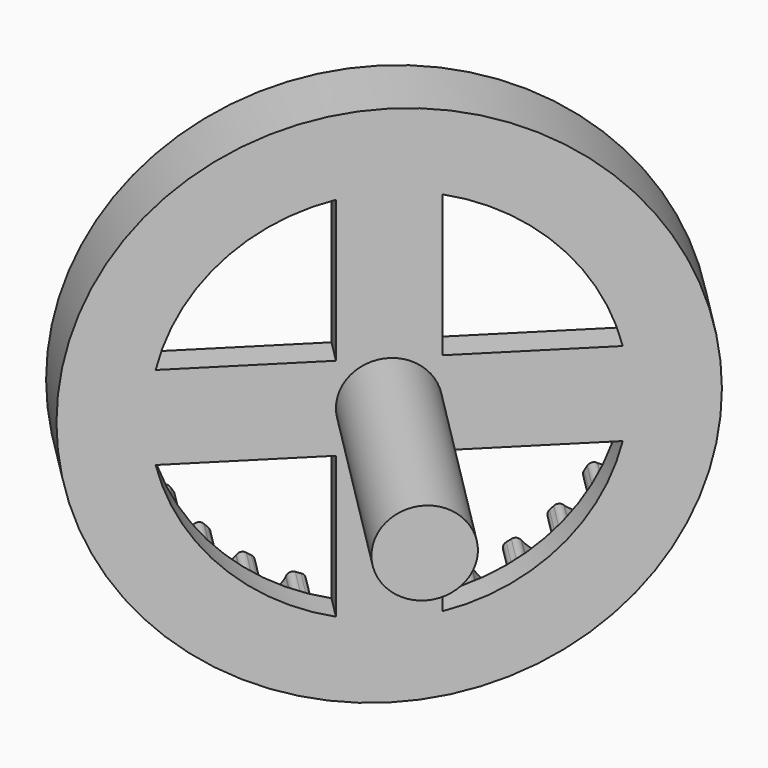
from build123d import *

# Parameters (mm, degrees)
SKETCH044_R             = 12.5
PAD026_DEPTH            = 2
POCKET014_DEPTH         = 2.001
SKETCH045_R             = 12.5
PAD027_DEPTH            = 1.5
POCKET015_DEPTH         = 3.501
SKETCH047_R             = 2
PAD028_DEPTH            = 12
BODY018_ROLL_ANGLE      = -90
BODY018_PLACEMENT_ANGLE = -135


with BuildPart() as part:
    # Sketch044 → Pad026 (new body)
    with BuildSketch(Plane.XY):
        Circle(SKETCH044_R)
    extrude(amount=PAD026_DEPTH)

    # InvoluteGear003 → Pocket014 (cut, through all)
    with BuildSketch(Plane.XY):
        with BuildLine():
            Line((9.429779, -0.670682), (9.462464, -0.672485))
            add(Edge.make_bspline(
                [(9.462464, -0.672485), (9.526401, -0.672813), (9.782228, -0.665747), (10.228882, -0.559536), (10.796766, -0.262578)],
                knots=[0, 0, 0, 0, 0, 1, 1, 1, 1, 1], degree=4))
            ThreePointArc((10.796766, -0.262578), (10.799979, 0.000282), (10.796794, 0.263143))
            add(Edge.make_bspline(
                [(10.796794, 0.263143), (10.228882, 0.559536), (9.782228, 0.665747), (9.526401, 0.672813), (9.462464, 0.672485)],
                knots=[0, 0, 0, 0, 0, 1, 1, 1, 1, 1], degree=4))
            Line((9.462464, 0.672485), (9.429779, 0.670682))
            ThreePointArc((9.429779, 0.670682), (9.231731, 0.732712), (9.134195, 0.9159))
            ThreePointArc((9.134195, 0.9159), (9.122278, 1.027834), (9.108989, 1.139613))
            ThreePointArc((9.108989, 1.139613), (9.163316, 1.339912), (9.342596, 1.444457))
            Line((9.342596, 1.444457), (9.374862, 1.449972))
            add(Edge.make_bspline(
                [(9.374862, 1.449972), (9.437269, 1.46388), (9.68511, 1.527695), (10.096931, 1.730633), (10.584498, 2.146512)],
                knots=[0, 0, 0, 0, 0, 1, 1, 1, 1, 1], degree=4))
            ThreePointArc((10.584498, 2.146512), (10.529138, 2.403497), (10.467541, 2.659058))
            add(Edge.make_bspline(
                [(10.467541, 2.659058), (9.847914, 2.821648), (9.388824, 2.825806), (9.137839, 2.775768), (9.075578, 2.76122)],
                knots=[0, 0, 0, 0, 0, 1, 1, 1, 1, 1], degree=4))
            Line((9.075578, 2.76122), (9.044114, 2.75219))
            ThreePointArc((9.044114, 2.75219), (8.837228, 2.768595), (8.701375, 2.925486))
            ThreePointArc((8.701375, 2.925486), (8.664849, 3.031962), (8.62702, 3.137981))
            ThreePointArc((8.62702, 3.137981), (8.635414, 3.345347), (8.786936, 3.487164))
            Line((8.786936, 3.487164), (8.817165, 3.499721))
            add(Edge.make_bspline(
                [(8.817165, 3.499721), (8.874913, 3.527167), (9.10234, 3.644532), (9.458678, 3.934021), (9.841478, 4.447967)],
                knots=[0, 0, 0, 0, 0, 1, 1, 1, 1, 1], degree=4))
            ThreePointArc((9.841478, 4.447967), (9.730323, 4.68619), (9.613402, 4.921637))
            add(Edge.make_bspline(
                [(9.613402, 4.921637), (8.973131, 4.94227), (8.524626, 4.844167), (8.291068, 4.739534), (8.233605, 4.711497)],
                knots=[0, 0, 0, 0, 0, 1, 1, 1, 1, 1], degree=4))
            Line((8.233605, 4.711497), (8.20494, 4.695691))
            ThreePointArc((8.20494, 4.695691), (7.99959, 4.665649), (7.832232, 4.788376))
            ThreePointArc((7.832232, 4.788376), (7.772928, 4.884054), (7.712456, 4.978998))
            ThreePointArc((7.712456, 4.978998), (7.674496, 5.183033), (7.790662, 5.355011))
            Line((7.790662, 5.355011), (7.817339, 5.37398))
            add(Edge.make_bspline(
                [(7.817339, 5.37398), (7.867532, 5.413588), (8.06314, 5.578617), (8.346127, 5.940141), (8.604966, 6.526382)],
                knots=[0, 0, 0, 0, 0, 1, 1, 1, 1, 1], degree=4))
            ThreePointArc((8.604966, 6.526382), (8.443588, 6.733898), (8.277206, 6.937424))
            add(Edge.make_bspline(
                [(8.277206, 6.937424), (7.648397, 6.815067), (7.232967, 6.619621), (7.028548, 6.46564), (6.978765, 6.425519)],
                knots=[0, 0, 0, 0, 0, 1, 1, 1, 1, 1], degree=4))
            Line((6.978765, 6.425519), (6.954335, 6.403732))
            ThreePointArc((6.954335, 6.403732), (6.760819, 6.328748), (6.570347, 6.411157))
            ThreePointArc((6.570347, 6.411157), (6.49124, 6.49124), (6.411157, 6.570347))
            ThreePointArc((6.411157, 6.570347), (6.328748, 6.760819), (6.403732, 6.954335))
            Line((6.403732, 6.954335), (6.425519, 6.978765))
            add(Edge.make_bspline(
                [(6.425519, 6.978765), (6.46564, 7.028548), (6.619621, 7.232967), (6.815067, 7.648397), (6.936965, 8.277537)],
                knots=[0, 0, 0, 0, 0, 1, 1, 1, 1, 1], degree=4))
            ThreePointArc((6.936965, 8.277537), (6.733456, 8.44394), (6.525958, 8.60534))
            add(Edge.make_bspline(
                [(6.525958, 8.60534), (5.940141, 8.346127), (5.578617, 8.06314), (5.413588, 7.867532), (5.37398, 7.817339)],
                knots=[0, 0, 0, 0, 0, 1, 1, 1, 1, 1], degree=4))
            Line((5.37398, 7.817339), (5.355011, 7.790662))
            ThreePointArc((5.355011, 7.790662), (5.183033, 7.674496), (4.978998, 7.712456))
            ThreePointArc((4.978998, 7.712456), (4.884054, 7.772928), (4.788376, 7.832232))
            ThreePointArc((4.788376, 7.832232), (4.665649, 7.99959), (4.695691, 8.20494))
            Line((4.695691, 8.20494), (4.711497, 8.233605))
            add(Edge.make_bspline(
                [(4.711497, 8.233605), (4.739534, 8.291068), (4.844167, 8.524626), (4.94227, 8.973131), (4.921116, 9.613622)],
                knots=[0, 0, 0, 0, 0, 1, 1, 1, 1, 1], degree=4))
            ThreePointArc((4.921116, 9.613622), (4.685681, 9.730568), (4.44747, 9.841748))
            add(Edge.make_bspline(
                [(4.44747, 9.841748), (3.934021, 9.458678), (3.644532, 9.10234), (3.527167, 8.874913), (3.499721, 8.817165)],
                knots=[0, 0, 0, 0, 0, 1, 1, 1, 1, 1], degree=4))
            Line((3.499721, 8.817165), (3.487164, 8.786936))
            ThreePointArc((3.487164, 8.786936), (3.345347, 8.635414), (3.137981, 8.62702))
            ThreePointArc((3.137981, 8.62702), (3.031962, 8.664849), (2.925486, 8.701375))
            ThreePointArc((2.925486, 8.701375), (2.768595, 8.837228), (2.75219, 9.044114))
            Line((2.75219, 9.044114), (2.76122, 9.075578))
            add(Edge.make_bspline(
                [(2.76122, 9.075578), (2.775768, 9.137839), (2.825806, 9.388824), (2.821648, 9.847914), (2.658501, 10.46764)],
                knots=[0, 0, 0, 0, 0, 1, 1, 1, 1, 1], degree=4))
            ThreePointArc((2.658501, 10.46764), (2.402946, 10.529264), (2.145967, 10.58465))
            add(Edge.make_bspline(
                [(2.145967, 10.58465), (1.730633, 10.096931), (1.527695, 9.68511), (1.46388, 9.437269), (1.449972, 9.374862)],
                knots=[0, 0, 0, 0, 0, 1, 1, 1, 1, 1], degree=4))
            Line((1.449972, 9.374862), (1.444457, 9.342596))
            ThreePointArc((1.444457, 9.342596), (1.339912, 9.163316), (1.139613, 9.108989))
            ThreePointArc((1.139613, 9.108989), (1.027834, 9.122278), (0.9159, 9.134195))
            ThreePointArc((0.9159, 9.134195), (0.732712, 9.231731), (0.670682, 9.429779))
            Line((0.670682, 9.429779), (0.672485, 9.462464))
            add(Edge.make_bspline(
                [(0.672485, 9.462464), (0.672813, 9.526401), (0.665747, 9.782228), (0.559536, 10.228882), (0.262578, 10.796766)],
                knots=[0, 0, 0, 0, 0, 1, 1, 1, 1, 1], degree=4))
            ThreePointArc((0.262578, 10.796766), (-0.000282, 10.799979), (-0.263143, 10.796794))
            add(Edge.make_bspline(
                [(-0.263143, 10.796794), (-0.559536, 10.228882), (-0.665747, 9.782228), (-0.672813, 9.526401), (-0.672485, 9.462464)],
                knots=[0, 0, 0, 0, 0, 1, 1, 1, 1, 1], degree=4))
            Line((-0.672485, 9.462464), (-0.670682, 9.429779))
            ThreePointArc((-0.670682, 9.429779), (-0.732712, 9.231731), (-0.9159, 9.134195))
            ThreePointArc((-0.9159, 9.134195), (-1.027834, 9.122278), (-1.139613, 9.108989))
            ThreePointArc((-1.139613, 9.108989), (-1.339912, 9.163316), (-1.444457, 9.342596))
            Line((-1.444457, 9.342596), (-1.449972, 9.374862))
            add(Edge.make_bspline(
                [(-1.449972, 9.374862), (-1.46388, 9.437269), (-1.527695, 9.68511), (-1.730633, 10.096931), (-2.146512, 10.584498)],
                knots=[0, 0, 0, 0, 0, 1, 1, 1, 1, 1], degree=4))
            ThreePointArc((-2.146512, 10.584498), (-2.403497, 10.529138), (-2.659058, 10.467541))
            add(Edge.make_bspline(
                [(-2.659058, 10.467541), (-2.821648, 9.847914), (-2.825806, 9.388824), (-2.775768, 9.137839), (-2.76122, 9.075578)],
                knots=[0, 0, 0, 0, 0, 1, 1, 1, 1, 1], degree=4))
            Line((-2.76122, 9.075578), (-2.75219, 9.044114))
            ThreePointArc((-2.75219, 9.044114), (-2.768595, 8.837228), (-2.925486, 8.701375))
            ThreePointArc((-2.925486, 8.701375), (-3.031962, 8.664849), (-3.137981, 8.62702))
            ThreePointArc((-3.137981, 8.62702), (-3.345347, 8.635414), (-3.487164, 8.786936))
            Line((-3.487164, 8.786936), (-3.499721, 8.817165))
            add(Edge.make_bspline(
                [(-3.499721, 8.817165), (-3.527167, 8.874913), (-3.644532, 9.10234), (-3.934021, 9.458678), (-4.447967, 9.841478)],
                knots=[0, 0, 0, 0, 0, 1, 1, 1, 1, 1], degree=4))
            ThreePointArc((-4.447967, 9.841478), (-4.68619, 9.730323), (-4.921637, 9.613402))
            add(Edge.make_bspline(
                [(-4.921637, 9.613402), (-4.94227, 8.973131), (-4.844167, 8.524626), (-4.739534, 8.291068), (-4.711497, 8.233605)],
                knots=[0, 0, 0, 0, 0, 1, 1, 1, 1, 1], degree=4))
            Line((-4.711497, 8.233605), (-4.695691, 8.20494))
            ThreePointArc((-4.695691, 8.20494), (-4.665649, 7.99959), (-4.788376, 7.832232))
            ThreePointArc((-4.788376, 7.832232), (-4.884054, 7.772928), (-4.978998, 7.712456))
            ThreePointArc((-4.978998, 7.712456), (-5.183033, 7.674496), (-5.355011, 7.790662))
            Line((-5.355011, 7.790662), (-5.37398, 7.817339))
            add(Edge.make_bspline(
                [(-5.37398, 7.817339), (-5.413588, 7.867532), (-5.578617, 8.06314), (-5.940141, 8.346127), (-6.526382, 8.604966)],
                knots=[0, 0, 0, 0, 0, 1, 1, 1, 1, 1], degree=4))
            ThreePointArc((-6.526382, 8.604966), (-6.733898, 8.443588), (-6.937424, 8.277206))
            add(Edge.make_bspline(
                [(-6.937424, 8.277206), (-6.815067, 7.648397), (-6.619621, 7.232967), (-6.46564, 7.028548), (-6.425519, 6.978765)],
                knots=[0, 0, 0, 0, 0, 1, 1, 1, 1, 1], degree=4))
            Line((-6.425519, 6.978765), (-6.403732, 6.954335))
            ThreePointArc((-6.403732, 6.954335), (-6.328748, 6.760819), (-6.411157, 6.570347))
            ThreePointArc((-6.411157, 6.570347), (-6.49124, 6.49124), (-6.570347, 6.411157))
            ThreePointArc((-6.570347, 6.411157), (-6.760819, 6.328748), (-6.954335, 6.403732))
            Line((-6.954335, 6.403732), (-6.978765, 6.425519))
            add(Edge.make_bspline(
                [(-6.978765, 6.425519), (-7.028548, 6.46564), (-7.232967, 6.619621), (-7.648397, 6.815067), (-8.277537, 6.936965)],
                knots=[0, 0, 0, 0, 0, 1, 1, 1, 1, 1], degree=4))
            ThreePointArc((-8.277537, 6.936965), (-8.44394, 6.733456), (-8.60534, 6.525958))
            add(Edge.make_bspline(
                [(-8.60534, 6.525958), (-8.346127, 5.940141), (-8.06314, 5.578617), (-7.867532, 5.413588), (-7.817339, 5.37398)],
                knots=[0, 0, 0, 0, 0, 1, 1, 1, 1, 1], degree=4))
            Line((-7.817339, 5.37398), (-7.790662, 5.355011))
            ThreePointArc((-7.790662, 5.355011), (-7.674496, 5.183033), (-7.712456, 4.978998))
            ThreePointArc((-7.712456, 4.978998), (-7.772928, 4.884054), (-7.832232, 4.788376))
            ThreePointArc((-7.832232, 4.788376), (-7.99959, 4.665649), (-8.20494, 4.695691))
            Line((-8.20494, 4.695691), (-8.233605, 4.711497))
            add(Edge.make_bspline(
                [(-8.233605, 4.711497), (-8.291068, 4.739534), (-8.524626, 4.844167), (-8.973131, 4.94227), (-9.613622, 4.921116)],
                knots=[0, 0, 0, 0, 0, 1, 1, 1, 1, 1], degree=4))
            ThreePointArc((-9.613622, 4.921116), (-9.730568, 4.685681), (-9.841748, 4.44747))
            add(Edge.make_bspline(
                [(-9.841748, 4.44747), (-9.458678, 3.934021), (-9.10234, 3.644532), (-8.874913, 3.527167), (-8.817165, 3.499721)],
                knots=[0, 0, 0, 0, 0, 1, 1, 1, 1, 1], degree=4))
            Line((-8.817165, 3.499721), (-8.786936, 3.487164))
            ThreePointArc((-8.786936, 3.487164), (-8.635414, 3.345347), (-8.62702, 3.137981))
            ThreePointArc((-8.62702, 3.137981), (-8.664849, 3.031962), (-8.701375, 2.925486))
            ThreePointArc((-8.701375, 2.925486), (-8.837228, 2.768595), (-9.044114, 2.75219))
            Line((-9.044114, 2.75219), (-9.075578, 2.76122))
            add(Edge.make_bspline(
                [(-9.075578, 2.76122), (-9.137839, 2.775768), (-9.388824, 2.825806), (-9.847914, 2.821648), (-10.46764, 2.658501)],
                knots=[0, 0, 0, 0, 0, 1, 1, 1, 1, 1], degree=4))
            ThreePointArc((-10.46764, 2.658501), (-10.529264, 2.402946), (-10.58465, 2.145967))
            add(Edge.make_bspline(
                [(-10.58465, 2.145967), (-10.096931, 1.730633), (-9.68511, 1.527695), (-9.437269, 1.46388), (-9.374862, 1.449972)],
                knots=[0, 0, 0, 0, 0, 1, 1, 1, 1, 1], degree=4))
            Line((-9.374862, 1.449972), (-9.342596, 1.444457))
            ThreePointArc((-9.342596, 1.444457), (-9.163316, 1.339912), (-9.108989, 1.139613))
            ThreePointArc((-9.108989, 1.139613), (-9.122278, 1.027834), (-9.134195, 0.9159))
            ThreePointArc((-9.134195, 0.9159), (-9.231731, 0.732712), (-9.429779, 0.670682))
            Line((-9.429779, 0.670682), (-9.462464, 0.672485))
            add(Edge.make_bspline(
                [(-9.462464, 0.672485), (-9.526401, 0.672813), (-9.782228, 0.665747), (-10.228882, 0.559536), (-10.796766, 0.262578)],
                knots=[0, 0, 0, 0, 0, 1, 1, 1, 1, 1], degree=4))
            ThreePointArc((-10.796766, 0.262578), (-10.799979, -0.000282), (-10.796794, -0.263143))
            add(Edge.make_bspline(
                [(-10.796794, -0.263143), (-10.228882, -0.559536), (-9.782228, -0.665747), (-9.526401, -0.672813), (-9.462464, -0.672485)],
                knots=[0, 0, 0, 0, 0, 1, 1, 1, 1, 1], degree=4))
            Line((-9.462464, -0.672485), (-9.429779, -0.670682))
            ThreePointArc((-9.429779, -0.670682), (-9.231731, -0.732712), (-9.134195, -0.9159))
            ThreePointArc((-9.134195, -0.9159), (-9.122278, -1.027834), (-9.108989, -1.139613))
            ThreePointArc((-9.108989, -1.139613), (-9.163316, -1.339912), (-9.342596, -1.444457))
            Line((-9.342596, -1.444457), (-9.374862, -1.449972))
            add(Edge.make_bspline(
                [(-9.374862, -1.449972), (-9.437269, -1.46388), (-9.68511, -1.527695), (-10.096931, -1.730633), (-10.584498, -2.146512)],
                knots=[0, 0, 0, 0, 0, 1, 1, 1, 1, 1], degree=4))
            ThreePointArc((-10.584498, -2.146512), (-10.529138, -2.403497), (-10.467541, -2.659058))
            add(Edge.make_bspline(
                [(-10.467541, -2.659058), (-9.847914, -2.821648), (-9.388824, -2.825806), (-9.137839, -2.775768), (-9.075578, -2.76122)],
                knots=[0, 0, 0, 0, 0, 1, 1, 1, 1, 1], degree=4))
            Line((-9.075578, -2.76122), (-9.044114, -2.75219))
            ThreePointArc((-9.044114, -2.75219), (-8.837228, -2.768595), (-8.701375, -2.925486))
            ThreePointArc((-8.701375, -2.925486), (-8.664849, -3.031962), (-8.62702, -3.137981))
            ThreePointArc((-8.62702, -3.137981), (-8.635414, -3.345347), (-8.786936, -3.487164))
            Line((-8.786936, -3.487164), (-8.817165, -3.499721))
            add(Edge.make_bspline(
                [(-8.817165, -3.499721), (-8.874913, -3.527167), (-9.10234, -3.644532), (-9.458678, -3.934021), (-9.841478, -4.447967)],
                knots=[0, 0, 0, 0, 0, 1, 1, 1, 1, 1], degree=4))
            ThreePointArc((-9.841478, -4.447967), (-9.730323, -4.68619), (-9.613402, -4.921637))
            add(Edge.make_bspline(
                [(-9.613402, -4.921637), (-8.973131, -4.94227), (-8.524626, -4.844167), (-8.291068, -4.739534), (-8.233605, -4.711497)],
                knots=[0, 0, 0, 0, 0, 1, 1, 1, 1, 1], degree=4))
            Line((-8.233605, -4.711497), (-8.20494, -4.695691))
            ThreePointArc((-8.20494, -4.695691), (-7.99959, -4.665649), (-7.832232, -4.788376))
            ThreePointArc((-7.832232, -4.788376), (-7.772928, -4.884054), (-7.712456, -4.978998))
            ThreePointArc((-7.712456, -4.978998), (-7.674496, -5.183033), (-7.790662, -5.355011))
            Line((-7.790662, -5.355011), (-7.817339, -5.37398))
            add(Edge.make_bspline(
                [(-7.817339, -5.37398), (-7.867532, -5.413588), (-8.06314, -5.578617), (-8.346127, -5.940141), (-8.604966, -6.526382)],
                knots=[0, 0, 0, 0, 0, 1, 1, 1, 1, 1], degree=4))
            ThreePointArc((-8.604966, -6.526382), (-8.443588, -6.733898), (-8.277206, -6.937424))
            add(Edge.make_bspline(
                [(-8.277206, -6.937424), (-7.648397, -6.815067), (-7.232967, -6.619621), (-7.028548, -6.46564), (-6.978765, -6.425519)],
                knots=[0, 0, 0, 0, 0, 1, 1, 1, 1, 1], degree=4))
            Line((-6.978765, -6.425519), (-6.954335, -6.403732))
            ThreePointArc((-6.954335, -6.403732), (-6.760819, -6.328748), (-6.570347, -6.411157))
            ThreePointArc((-6.570347, -6.411157), (-6.49124, -6.49124), (-6.411157, -6.570347))
            ThreePointArc((-6.411157, -6.570347), (-6.328748, -6.760819), (-6.403732, -6.954335))
            Line((-6.403732, -6.954335), (-6.425519, -6.978765))
            add(Edge.make_bspline(
                [(-6.425519, -6.978765), (-6.46564, -7.028548), (-6.619621, -7.232967), (-6.815067, -7.648397), (-6.936965, -8.277537)],
                knots=[0, 0, 0, 0, 0, 1, 1, 1, 1, 1], degree=4))
            ThreePointArc((-6.936965, -8.277537), (-6.733456, -8.44394), (-6.525958, -8.60534))
            add(Edge.make_bspline(
                [(-6.525958, -8.60534), (-5.940141, -8.346127), (-5.578617, -8.06314), (-5.413588, -7.867532), (-5.37398, -7.817339)],
                knots=[0, 0, 0, 0, 0, 1, 1, 1, 1, 1], degree=4))
            Line((-5.37398, -7.817339), (-5.355011, -7.790662))
            ThreePointArc((-5.355011, -7.790662), (-5.183033, -7.674496), (-4.978998, -7.712456))
            ThreePointArc((-4.978998, -7.712456), (-4.884054, -7.772928), (-4.788376, -7.832232))
            ThreePointArc((-4.788376, -7.832232), (-4.665649, -7.99959), (-4.695691, -8.20494))
            Line((-4.695691, -8.20494), (-4.711497, -8.233605))
            add(Edge.make_bspline(
                [(-4.711497, -8.233605), (-4.739534, -8.291068), (-4.844167, -8.524626), (-4.94227, -8.973131), (-4.921116, -9.613622)],
                knots=[0, 0, 0, 0, 0, 1, 1, 1, 1, 1], degree=4))
            ThreePointArc((-4.921116, -9.613622), (-4.685681, -9.730568), (-4.44747, -9.841748))
            add(Edge.make_bspline(
                [(-4.44747, -9.841748), (-3.934021, -9.458678), (-3.644532, -9.10234), (-3.527167, -8.874913), (-3.499721, -8.817165)],
                knots=[0, 0, 0, 0, 0, 1, 1, 1, 1, 1], degree=4))
            Line((-3.499721, -8.817165), (-3.487164, -8.786936))
            ThreePointArc((-3.487164, -8.786936), (-3.345347, -8.635414), (-3.137981, -8.62702))
            ThreePointArc((-3.137981, -8.62702), (-3.031962, -8.664849), (-2.925486, -8.701375))
            ThreePointArc((-2.925486, -8.701375), (-2.768595, -8.837228), (-2.75219, -9.044114))
            Line((-2.75219, -9.044114), (-2.76122, -9.075578))
            add(Edge.make_bspline(
                [(-2.76122, -9.075578), (-2.775768, -9.137839), (-2.825806, -9.388824), (-2.821648, -9.847914), (-2.658501, -10.46764)],
                knots=[0, 0, 0, 0, 0, 1, 1, 1, 1, 1], degree=4))
            ThreePointArc((-2.658501, -10.46764), (-2.402946, -10.529264), (-2.145967, -10.58465))
            add(Edge.make_bspline(
                [(-2.145967, -10.58465), (-1.730633, -10.096931), (-1.527695, -9.68511), (-1.46388, -9.437269), (-1.449972, -9.374862)],
                knots=[0, 0, 0, 0, 0, 1, 1, 1, 1, 1], degree=4))
            Line((-1.449972, -9.374862), (-1.444457, -9.342596))
            ThreePointArc((-1.444457, -9.342596), (-1.339912, -9.163316), (-1.139613, -9.108989))
            ThreePointArc((-1.139613, -9.108989), (-1.027834, -9.122278), (-0.9159, -9.134195))
            ThreePointArc((-0.9159, -9.134195), (-0.732712, -9.231731), (-0.670682, -9.429779))
            Line((-0.670682, -9.429779), (-0.672485, -9.462464))
            add(Edge.make_bspline(
                [(-0.672485, -9.462464), (-0.672813, -9.526401), (-0.665747, -9.782228), (-0.559536, -10.228882), (-0.262578, -10.796766)],
                knots=[0, 0, 0, 0, 0, 1, 1, 1, 1, 1], degree=4))
            ThreePointArc((-0.262578, -10.796766), (0.000282, -10.799979), (0.263143, -10.796794))
            add(Edge.make_bspline(
                [(0.263143, -10.796794), (0.559536, -10.228882), (0.665747, -9.782228), (0.672813, -9.526401), (0.672485, -9.462464)],
                knots=[0, 0, 0, 0, 0, 1, 1, 1, 1, 1], degree=4))
            Line((0.672485, -9.462464), (0.670682, -9.429779))
            ThreePointArc((0.670682, -9.429779), (0.732712, -9.231731), (0.9159, -9.134195))
            ThreePointArc((0.9159, -9.134195), (1.027834, -9.122278), (1.139613, -9.108989))
            ThreePointArc((1.139613, -9.108989), (1.339912, -9.163316), (1.444457, -9.342596))
            Line((1.444457, -9.342596), (1.449972, -9.374862))
            add(Edge.make_bspline(
                [(1.449972, -9.374862), (1.46388, -9.437269), (1.527695, -9.68511), (1.730633, -10.096931), (2.146512, -10.584498)],
                knots=[0, 0, 0, 0, 0, 1, 1, 1, 1, 1], degree=4))
            ThreePointArc((2.146512, -10.584498), (2.403497, -10.529138), (2.659058, -10.467541))
            add(Edge.make_bspline(
                [(2.659058, -10.467541), (2.821648, -9.847914), (2.825806, -9.388824), (2.775768, -9.137839), (2.76122, -9.075578)],
                knots=[0, 0, 0, 0, 0, 1, 1, 1, 1, 1], degree=4))
            Line((2.76122, -9.075578), (2.75219, -9.044114))
            ThreePointArc((2.75219, -9.044114), (2.768595, -8.837228), (2.925486, -8.701375))
            ThreePointArc((2.925486, -8.701375), (3.031962, -8.664849), (3.137981, -8.62702))
            ThreePointArc((3.137981, -8.62702), (3.345347, -8.635414), (3.487164, -8.786936))
            Line((3.487164, -8.786936), (3.499721, -8.817165))
            add(Edge.make_bspline(
                [(3.499721, -8.817165), (3.527167, -8.874913), (3.644532, -9.10234), (3.934021, -9.458678), (4.447967, -9.841478)],
                knots=[0, 0, 0, 0, 0, 1, 1, 1, 1, 1], degree=4))
            ThreePointArc((4.447967, -9.841478), (4.68619, -9.730323), (4.921637, -9.613402))
            add(Edge.make_bspline(
                [(4.921637, -9.613402), (4.94227, -8.973131), (4.844167, -8.524626), (4.739534, -8.291068), (4.711497, -8.233605)],
                knots=[0, 0, 0, 0, 0, 1, 1, 1, 1, 1], degree=4))
            Line((4.711497, -8.233605), (4.695691, -8.20494))
            ThreePointArc((4.695691, -8.20494), (4.665649, -7.99959), (4.788376, -7.832232))
            ThreePointArc((4.788376, -7.832232), (4.884054, -7.772928), (4.978998, -7.712456))
            ThreePointArc((4.978998, -7.712456), (5.183033, -7.674496), (5.355011, -7.790662))
            Line((5.355011, -7.790662), (5.37398, -7.817339))
            add(Edge.make_bspline(
                [(5.37398, -7.817339), (5.413588, -7.867532), (5.578617, -8.06314), (5.940141, -8.346127), (6.526382, -8.604966)],
                knots=[0, 0, 0, 0, 0, 1, 1, 1, 1, 1], degree=4))
            ThreePointArc((6.526382, -8.604966), (6.733898, -8.443588), (6.937424, -8.277206))
            add(Edge.make_bspline(
                [(6.937424, -8.277206), (6.815067, -7.648397), (6.619621, -7.232967), (6.46564, -7.028548), (6.425519, -6.978765)],
                knots=[0, 0, 0, 0, 0, 1, 1, 1, 1, 1], degree=4))
            Line((6.425519, -6.978765), (6.403732, -6.954335))
            ThreePointArc((6.403732, -6.954335), (6.328748, -6.760819), (6.411157, -6.570347))
            ThreePointArc((6.411157, -6.570347), (6.49124, -6.49124), (6.570347, -6.411157))
            ThreePointArc((6.570347, -6.411157), (6.760819, -6.328748), (6.954335, -6.403732))
            Line((6.954335, -6.403732), (6.978765, -6.425519))
            add(Edge.make_bspline(
                [(6.978765, -6.425519), (7.028548, -6.46564), (7.232967, -6.619621), (7.648397, -6.815067), (8.277537, -6.936965)],
                knots=[0, 0, 0, 0, 0, 1, 1, 1, 1, 1], degree=4))
            ThreePointArc((8.277537, -6.936965), (8.44394, -6.733456), (8.60534, -6.525958))
            add(Edge.make_bspline(
                [(8.60534, -6.525958), (8.346127, -5.940141), (8.06314, -5.578617), (7.867532, -5.413588), (7.817339, -5.37398)],
                knots=[0, 0, 0, 0, 0, 1, 1, 1, 1, 1], degree=4))
            Line((7.817339, -5.37398), (7.790662, -5.355011))
            ThreePointArc((7.790662, -5.355011), (7.674496, -5.183033), (7.712456, -4.978998))
            ThreePointArc((7.712456, -4.978998), (7.772928, -4.884054), (7.832232, -4.788376))
            ThreePointArc((7.832232, -4.788376), (7.99959, -4.665649), (8.20494, -4.695691))
            Line((8.20494, -4.695691), (8.233605, -4.711497))
            add(Edge.make_bspline(
                [(8.233605, -4.711497), (8.291068, -4.739534), (8.524626, -4.844167), (8.973131, -4.94227), (9.613622, -4.921116)],
                knots=[0, 0, 0, 0, 0, 1, 1, 1, 1, 1], degree=4))
            ThreePointArc((9.613622, -4.921116), (9.730568, -4.685681), (9.841748, -4.44747))
            add(Edge.make_bspline(
                [(9.841748, -4.44747), (9.458678, -3.934021), (9.10234, -3.644532), (8.874913, -3.527167), (8.817165, -3.499721)],
                knots=[0, 0, 0, 0, 0, 1, 1, 1, 1, 1], degree=4))
            Line((8.817165, -3.499721), (8.786936, -3.487164))
            ThreePointArc((8.786936, -3.487164), (8.635414, -3.345347), (8.62702, -3.137981))
            ThreePointArc((8.62702, -3.137981), (8.664849, -3.031962), (8.701375, -2.925486))
            ThreePointArc((8.701375, -2.925486), (8.837228, -2.768595), (9.044114, -2.75219))
            Line((9.044114, -2.75219), (9.075578, -2.76122))
            add(Edge.make_bspline(
                [(9.075578, -2.76122), (9.137839, -2.775768), (9.388824, -2.825806), (9.847914, -2.821648), (10.46764, -2.658501)],
                knots=[0, 0, 0, 0, 0, 1, 1, 1, 1, 1], degree=4))
            ThreePointArc((10.46764, -2.658501), (10.529264, -2.402946), (10.58465, -2.145967))
            add(Edge.make_bspline(
                [(10.58465, -2.145967), (10.096931, -1.730633), (9.68511, -1.527695), (9.437269, -1.46388), (9.374862, -1.449972)],
                knots=[0, 0, 0, 0, 0, 1, 1, 1, 1, 1], degree=4))
            Line((9.374862, -1.449972), (9.342596, -1.444457))
            ThreePointArc((9.342596, -1.444457), (9.163316, -1.339912), (9.108989, -1.139613))
            ThreePointArc((9.108989, -1.139613), (9.122278, -1.027834), (9.134195, -0.9159))
            ThreePointArc((9.134195, -0.9159), (9.231731, -0.732712), (9.429779, -0.670682))
        make_face()
    extrude(amount=POCKET014_DEPTH, mode=Mode.SUBTRACT)

    # Sketch045 (on Face3 of Pocket014) → Pad027 (join)
    with BuildSketch(Plane.XY.offset(2)):
        Circle(SKETCH045_R)
    extrude(amount=PAD027_DEPTH)

    # Sketch046 (on Face228 of Pad027) → Pocket015 (cut, through all)
    with BuildSketch(Plane.XY.offset(3.5)):
        with BuildLine():
            Line((-8.774964, -2), (-2, -2))
            Line((-2, -2), (-2, -8.774964))
            ThreePointArc((-8.774964, -2), (-6.363961, -6.363961), (-2, -8.774964))
        make_face()
        with BuildLine():
            Line((-8.774964, 2), (-2, 2))
            Line((-2, 2), (-2, 8.774964))
            ThreePointArc((-2, 8.774964), (-6.363961, 6.363961), (-8.774964, 2))
        make_face()
        with BuildLine():
            Line((2, -8.774964), (2, -2))
            Line((2, -2), (8.774964, -2))
            ThreePointArc((2, -8.774964), (6.363961, -6.363961), (8.774964, -2))
        make_face()
        with BuildLine():
            Line((2, 2), (8.774964, 2))
            ThreePointArc((8.774964, 2), (6.363961, 6.363961), (2, 8.774964))
            Line((2, 2), (2, 8.774964))
        make_face()
    extrude(amount=-POCKET015_DEPTH, mode=Mode.SUBTRACT)

    # Sketch047 (on Face228 of Pocket015) → Pad028 (join)
    with BuildSketch(Plane.XY.offset(3.5)):
        Circle(SKETCH047_R)
    extrude(amount=PAD028_DEPTH)


with BuildPart() as part_1:
    # Body018 roll: moved
    add(part.part.rotate(Axis((0, 0, 0), (1, 0, 0)), BODY018_ROLL_ANGLE))


with BuildPart() as part_2:
    # Body018 placement: moved
    add(part_1.part.moved(Location((46.5, -46.5, -6))).rotate(Axis((46.5, -46.5, -6), (0, 0, 1)), BODY018_PLACEMENT_ANGLE))


solid = part_2.part
